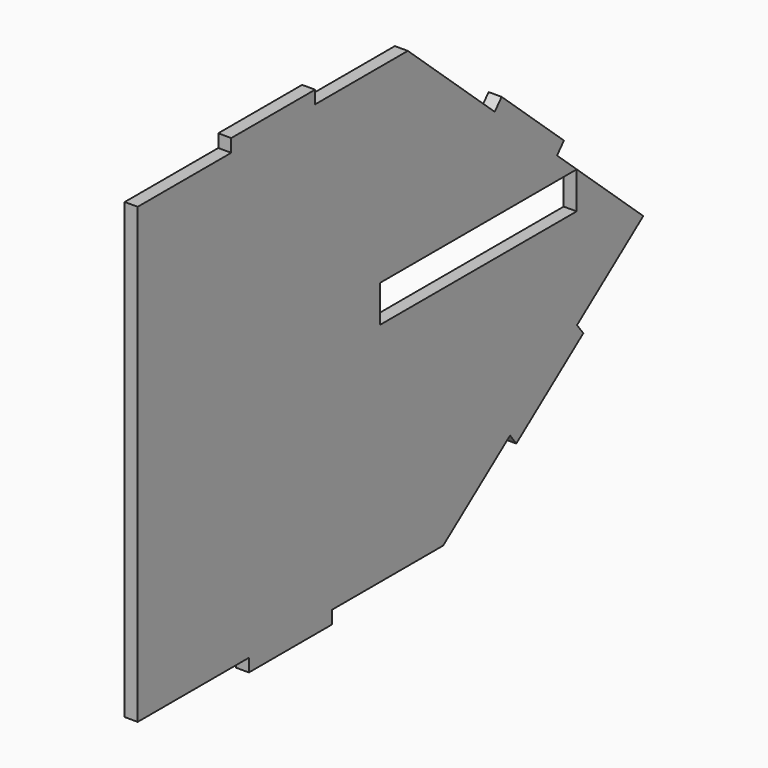
from build123d import *

# Parameters (mm, degrees)
F0_W     = 60.1218
F0_H     = 9.0424
F1_DEPTH = 3.175


with BuildPart() as f1:
    # F0 (on Right) → F1 (new body)
    with BuildSketch(Plane.YZ):
        Polygon((60.524522, 22.017577), (33.956723, 45.939331), (5.605423, 45.939331), (5.605423, 49.114331), (4.811673, 49.114331), (-7.094577, 49.114331), (-7.348577, 49.114331), (-19.254827, 49.114331), (-20.048577, 49.114331), (-20.048577, 45.939331), (-48.653877, 45.939331), (-48.653877, -65.018263), (-20.048577, -65.018263), (-14.643279, -65.018263), (-14.643279, -68.193263), (-13.849529, -68.193263), (9.962971, -68.193263), (10.756721, -68.193263), (10.756721, -65.018263), (11.010721, -65.018263), (44.767323, -65.018263), (65.225091, -49.602229), (67.135853, -52.137897), (67.76977, -51.660206), (77.278524, -44.494846), (86.787278, -37.329486), (87.624049, -36.698934), (85.713286, -34.163267), (105.9682, -18.900094), (79.58916, 4.8517), (81.713649, 7.211185), (80.935019, 7.912267), (72.086951, 15.879103), (63.238883, 23.845939), (62.649012, 24.377062), align=None)
        with Locations((55.53366, -5.099663)):
            Rectangle(F0_W, F0_H, mode=Mode.SUBTRACT)
    extrude(amount=F1_DEPTH)


solid = f1.part
